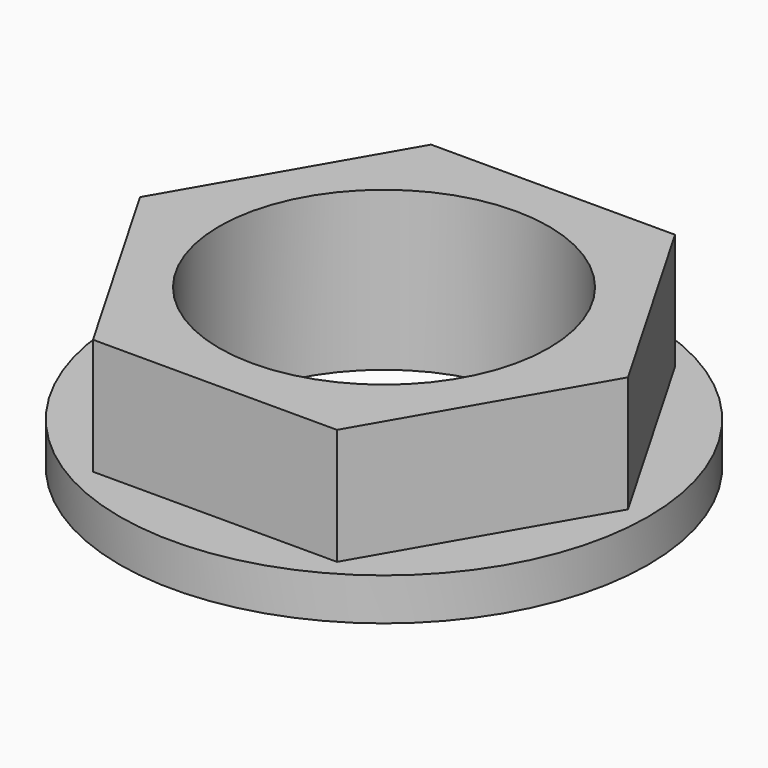
from build123d import *

# Parameters (mm, degrees)
F0_R     = 9.906
F1_DEPTH = 9.525
F2_R     = 15.875
F2_R_2   = 9.906
F3_DEPTH = 2.54


with BuildPart() as f1:
    # F0 (on Top) → F1 (new body)
    with BuildSketch(Plane.XY):
        Polygon((7.332348, 12.7), (-7.332348, 12.7), (-14.664697, 0), (-7.332348, -12.7), (7.332348, -12.7), (14.664697, 0), align=None)
        Circle(F0_R, mode=Mode.SUBTRACT)
    extrude(amount=F1_DEPTH)

    # F2 (on Top) → F3 (join)
    with BuildSketch(Plane.XY):
        Circle(F2_R)
        Circle(F2_R_2, mode=Mode.SUBTRACT)
    extrude(amount=F3_DEPTH)


solid = f1.part
